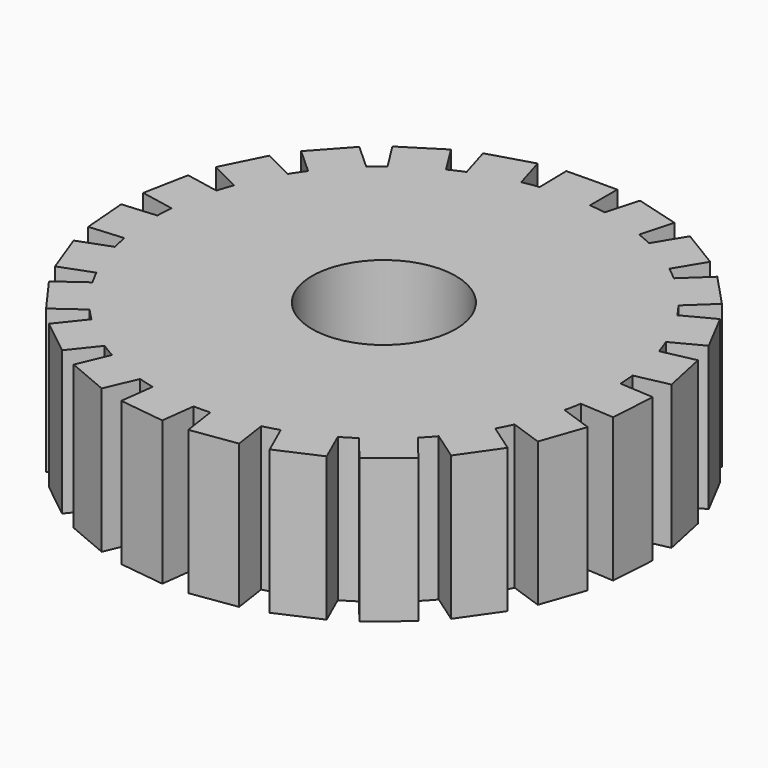
from build123d import *

# Parameters (mm, degrees)
F0_R     = 8
F0_R_2   = 2.5
F1_DEPTH = 5
F3_DEPTH = 5


with BuildPart() as f1:
    # F0 (on Top) → F1 (new body)
    with BuildSketch(Plane.XY):
        Circle(F0_R)
        Circle(F0_R_2, mode=Mode.SUBTRACT)
    extrude(amount=F1_DEPTH)

    # F2 (on face) → F3 (join)
    with BuildSketch(Plane.XY.offset(5)):
        with BuildLine():
            ThreePointArc((-7.4773131729, 2.8442552126), (-7.1554071491, 3.5777295217), (-6.7617672686, 4.2753366424))
            Line((-6.7617672686, 4.2753366424), (-7.8207838354, 4.8048487661))
            Line((-7.8207838354, 4.8048487661), (-8.5363297397, 3.3737673363))
            Line((-8.5363297397, 3.3737673363), (-7.4773131729, 2.8442552126))
        make_face()
        with BuildLine():
            ThreePointArc((-7.9668552487, 0.7274733306), (-7.8541735526, 1.5205123497), (-7.6627527787, 2.2983080412))
            Line((-7.6627527787, 2.2983080412), (-8.8251883659, 2.5233473345))
            Line((-8.8251883659, 2.5233473345), (-9.1292908359, 0.952512624))
            Line((-9.1292908359, 0.952512624), (-7.9668552487, 0.7274733306))
        make_face()
        with BuildLine():
            ThreePointArc((-7.8687898433, -1.4429644491), (-7.9736434843, -0.6488525148), (-7.9985603463, 0.1517642477))
            Line((-7.9985603463, 0.1517642477), (-9.1786777557, 0.0557325966))
            Line((-9.1786777557, 0.0557325966), (-9.0489072527, -1.5389961002))
            Line((-9.0489072527, -1.5389961002), (-7.8687898433, -1.4429644491))
        make_face()
        with BuildLine():
            ThreePointArc((-7.1903499195, -3.5069741995), (-7.5050052582, -2.7703602788), (-7.7444219752, -2.0059731478))
            Line((-7.7444219752, -2.0059731478), (-8.855179859, -2.4159927833))
            Line((-8.855179859, -2.4159927833), (-8.3011078033, -3.916993835))
            Line((-8.3011078033, -3.916993835), (-7.1903499195, -3.5069741995))
        make_face()
        with BuildLine():
            ThreePointArc((-5.9815748417, -5.3123217535), (-6.482823997, -4.6875359225), (-6.9190820262, -4.0157569542))
            Line((-6.9190820262, -4.0157569542), (-7.8785547535, -4.7095229546))
            Line((-7.8785547535, -4.7095229546), (-6.941047569, -6.006087754))
            Line((-6.941047569, -6.006087754), (-5.9815748417, -5.3123217535))
        make_face()
        with BuildLine():
            ThreePointArc((-4.3316196476, -6.7258509669), (-4.9824922283, -6.2589752512), (-5.5834146978, -5.7293525212))
            Line((-5.5834146978, -5.7293525212), (-6.3208349038, -6.655695124))
            Line((-6.3208349038, -6.655695124), (-5.0690398536, -7.6521935697))
            Line((-5.0690398536, -7.6521935697), (-4.3316196476, -6.7258509669))
        make_face()
        with BuildLine():
            ThreePointArc((-2.3621792826, -7.6433048505), (-3.1146691954, -7.3687743759), (-3.8359341578, -7.0203710114))
            Line((-3.8359341578, -7.0203710114), (-4.2969122977, -8.1109664141))
            Line((-4.2969122977, -8.1109664141), (-2.8231574225, -8.7339002532))
            Line((-2.8231574225, -8.7339002532), (-2.3621792826, -7.6433048505))
        make_face()
        with BuildLine():
            ThreePointArc((-0.2185128052, -7.9970152028), (-1.0171190163, -7.9350783806), (-1.8055284813, -7.7935913996))
            Line((-1.8055284813, -7.7935913996), (-1.956064414, -8.9680010857))
            Line((-1.956064414, -8.9680010857), (-0.3690487378, -9.171424889))
            Line((-0.3690487378, -9.171424889), (-0.2185128052, -7.9970152028))
        make_face()
        with BuildLine():
            Line((2.1122796957, -8.9324971845), (1.9412704153, -7.7608935809))
            ThreePointArc((1.9412704153, -7.7608935809), (1.1554503171, -7.9161186553), (0.3580466842, -7.9919836444))
            Line((0.3580466842, -7.9919836444), (0.5290559647, -9.163587248))
            Line((0.5290559647, -9.163587248), (2.1122796957, -8.9324971845))
        make_face()
        with BuildLine():
            Line((4.4378137396, -8.0347396148), (3.9578722946, -6.9523554929))
            ThreePointArc((3.9578722946, -6.9523554929), (3.2427976615, -7.3132936032), (2.495213574, -7.6009150252))
            Line((2.495213574, -7.6009150252), (2.975155019, -8.6832991471))
            Line((2.975155019, -8.6832991471), (4.4378137396, -8.0347396148))
        make_face()
        with BuildLine():
            Line((6.4360301064, -6.5443676496), (5.6825553055, -5.6310358905))
            ThreePointArc((5.6825553055, -5.6310358905), (5.0909675506, -6.1710654995), (4.4483422056, -6.6492294006))
            Line((4.4483422056, -6.6492294006), (5.2018170066, -7.5625611597))
            Line((5.2018170066, -7.5625611597), (6.4360301064, -6.5443676496))
        make_face()
        with BuildLine():
            Line((7.9595473202, -4.5713059318), (6.988112839, -3.8943907032))
            ThreePointArc((6.988112839, -3.8943907032), (6.5636454136, -4.5736811088), (6.0733766172, -5.2071197859))
            Line((6.0733766172, -5.2071197859), (7.0448110985, -5.8840350145))
            Line((7.0448110985, -5.8840350145), (7.9595473202, -4.5713059318))
        make_face()
        with BuildLine():
            Line((8.8959960602, -2.261080618), (7.7782515209, -1.8705088285))
            ThreePointArc((7.7782515209, -1.8705088285), (7.5522116631, -2.6389579374), (7.2504599334, -3.3809511611))
            Line((7.2504599334, -3.3809511611), (8.3682044728, -3.7715229506))
            Line((8.3682044728, -3.7715229506), (8.8959960602, -2.261080618))
        make_face()
        with BuildLine():
            Line((9.1763071307, 0.215914123), (7.9946934755, 0.2913352594))
            ThreePointArc((7.9946934755, 0.2913352594), (7.9986732589, 0.1456917916), (8, 0))
            ThreePointArc((8, 0), (7.9731485852, -0.6549058236), (7.8927745906, -1.3054153602))
            Line((7.8927745906, -1.3054153602), (9.0743882458, -1.3808364965))
            Line((9.0743882458, -1.3808364965), (9.1763071307, 0.215914123))
        make_face()
        with BuildLine():
            Line((8.7798057637, 2.6769837907), (7.6214746983, 2.4316914736))
            ThreePointArc((7.6214746983, 2.4316914736), (7.8264407244, 1.6573549974), (7.9529456978, 0.8664033288))
            Line((7.9529456978, 0.8664033288), (9.1112767632, 1.1116956459))
            Line((9.1112767632, 1.1116956459), (8.7798057637, 2.6769837907))
        make_face()
        with BuildLine():
            Line((7.7357365186, 4.9406084625), (6.6861225059, 4.3926945985))
            ThreePointArc((6.6861225059, 4.3926945985), (7.0918773562, 3.70206369), (7.4265352439, 2.9743191273))
            Line((7.4265352439, 2.9743191273), (8.4761492566, 3.5222329912))
            Line((8.4761492566, 3.5222329912), (7.7357365186, 4.9406084625))
        make_face()
        with BuildLine():
            Line((6.1211063045, 6.8398310705), (5.2576252165, 6.029707877))
            ThreePointArc((5.2576252165, 6.029707877), (5.8342418272, 5.4737210654), (6.3523694296, 4.8628595116))
            Line((6.3523694296, 4.8628595116), (7.2158505176, 5.6729827051))
            Line((7.2158505176, 5.6729827051), (6.1211063045, 6.8398310705))
        make_face()
        with BuildLine():
            Line((4.0550046196, 8.2345715735), (3.4413438124, 7.2219909142))
            ThreePointArc((3.4413438124, 7.2219909142), (4.1462929515, 6.8416558493), (4.8096749823, 6.3927323239))
            Line((4.8096749823, 6.3927323239), (5.4233357894, 7.4053129832))
            Line((5.4233357894, 7.4053129832), (4.0550046196, 8.2345715735))
        make_face()
        with BuildLine():
            Line((1.6898199243, 9.0219587722), (1.3712408807, 7.8816050679))
            ThreePointArc((1.3712408807, 7.8816050679), (2.1525279564, 7.7049739388), (2.9122356685, 7.4510994767))
            Line((2.9122356685, 7.4510994767), (3.2308147121, 8.591453181))
            Line((3.2308147121, 8.591453181), (1.6898199243, 9.0219587722))
        make_face()
        with BuildLine():
            Line((0.8, 9.1439177306), (-0.0797977611, 9.1439177306))
            Line((-0.0797977611, 9.1439177306), (-0.9594615248, 9.1285631425))
            Line((-0.9594615248, 9.1285631425), (-0.9387975573, 7.9447252405))
            ThreePointArc((-0.9387975573, 7.9447252405), (-0.069812284, 7.9996953845), (0.8, 7.9598994969))
            Line((0.8, 7.9598994969), (0.8, 9.1439177306))
        make_face()
        with BuildLine():
            ThreePointArc((-4.9205110082, 6.3078182772), (-4.2650648096, 6.7682510422), (-3.5668607998, 7.1608312391))
            Line((-3.5668607998, 7.1608312391), (-4.1981001127, 8.1625478197))
            Line((-4.1981001127, 8.1625478197), (-5.5517503211, 7.3095348578))
            Line((-5.5517503211, 7.3095348578), (-4.9205110082, 6.3078182772))
        make_face()
        with BuildLine():
            ThreePointArc((-6.4362705336, 4.7512547414), (-5.9288828486, 5.3710658316), (-5.3620573673, 5.9370313111))
            Line((-5.3620573673, 5.9370313111), (-6.2395455422, 6.7319612961))
            Line((-6.2395455422, 6.7319612961), (-7.3137587085, 5.5461847263))
            Line((-7.3137587085, 5.5461847263), (-6.4362705336, 4.7512547414))
        make_face()
        with BuildLine():
            ThreePointArc((-3.0418317373, 7.3991391176), (-2.2866704527, 7.6662336412), (-1.5085850091, 7.8564732081))
            Line((-1.5085850091, 7.8564732081), (-1.8470174479, 8.9910932601))
            Line((-1.8470174479, 8.9910932601), (-3.3802641762, 8.5337591696))
            Line((-3.3802641762, 8.5337591696), (-3.0418317373, 7.3991391176))
        make_face()
    extrude(amount=-F3_DEPTH)


solid = f1.part
